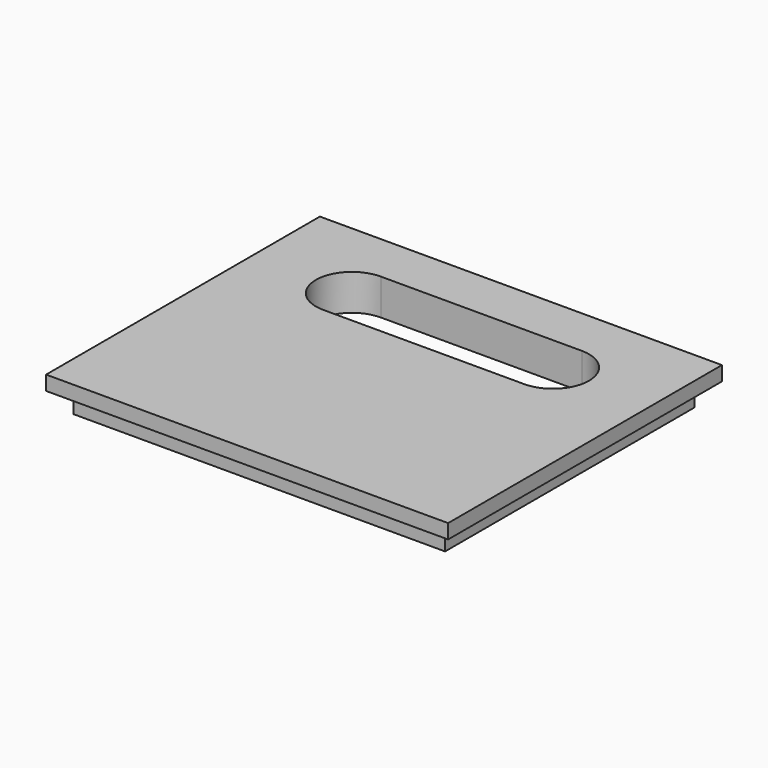
from build123d import *

# Parameters (mm, degrees)
F1_DEPTH = 2
F2_W     = 51.6000000954
F2_H     = 43.3000000954
F3_DEPTH = 3
F4_DEPTH = 17.9


with BuildPart() as f1:
    # F0 (on Top) → F1 (new body)
    with BuildSketch(Plane.XY):
        Polygon((-9.1260878563, 7.6790904999), (-64.9260878563, 7.6790904999), (-64.9260878563, -39.8209095001), (-9.1260878563, -39.8209095001), (-9.1260878563, -16.0709095001), align=None)
        with BuildLine():
            ThreePointArc((-50.9760878563, -9.1959095001), (-55.9760878563, -4.1959095001), (-50.9760878563, 0.8040904999))
            Line((-50.9760878563, 0.8040904999), (-23.0760878563, 0.8040904999))
            ThreePointArc((-23.0760878563, 0.8040904999), (-18.0760878563, -4.1959095001), (-23.0760878563, -9.1959095001))
            Line((-23.0760878563, -9.1959095001), (-50.9760878563, -9.1959095001))
        make_face(mode=Mode.SUBTRACT)
    extrude(amount=F1_DEPTH)

    # F2 (on face) → F3 (join)
    with BuildSketch(Plane(origin=(0, 0, 0), x_dir=(1, 0, 0), z_dir=(0, 0, -1))):
        with Locations((-37.0260878563, 16.0709095001)):
            Rectangle(F2_W, F2_H)
    extrude(amount=F3_DEPTH)

    # F4 (cut): a face of the model
    f4_faces = [f1.faces().sort_by_distance(p)[0] for p in [
        (-37.0260878563, -4.1959095001, 0),
    ]]
    extrude(f4_faces, amount=-F4_DEPTH, mode=Mode.SUBTRACT)


solid = f1.part
